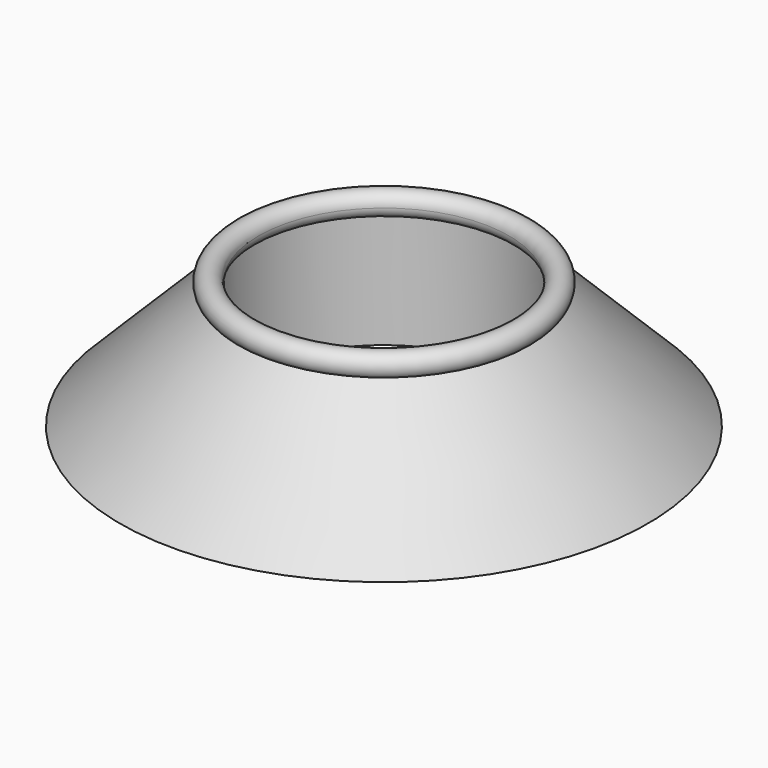
from build123d import *


with BuildPart() as f1:
    # F0 (on Front) → F1 (revolve)
    with BuildSketch(Plane.XZ):
        with BuildLine():
            ThreePointArc((-32.085858, 37.084206), (-41.919503, 43.654837), (-44.226802, 32.055263))
            Line((-44.226802, 32.055263), (-39.197858, 37.084206))
            Line((-39.197858, 37.084206), (-39.197858, 29.972206))
            ThreePointArc((-39.197858, 29.972206), (-34.168915, 32.055263), (-32.085858, 37.084206))
        make_face()
        with BuildLine():
            Line((-39.197858, 37.084206), (-44.226802, 32.055263))
            ThreePointArc((-44.226802, 32.055263), (-41.919503, 30.513575), (-39.197858, 29.972206))
            Line((-39.197858, 29.972206), (-39.197858, 37.084206))
        make_face()
        with BuildLine():
            Line((-44.226802, 32.055263), (-115.397858, -39.115794))
            Line((-115.397858, -39.115794), (-39.197858, -39.115794))
            Line((-39.197858, -39.115794), (-39.197858, 29.972206))
            ThreePointArc((-39.197858, 29.972206), (-41.919503, 30.513575), (-44.226802, 32.055263))
        make_face()
    revolve(axis=Axis((43.203969, 0, 6.607234), (0, 0, 1)))


solid = f1.part
